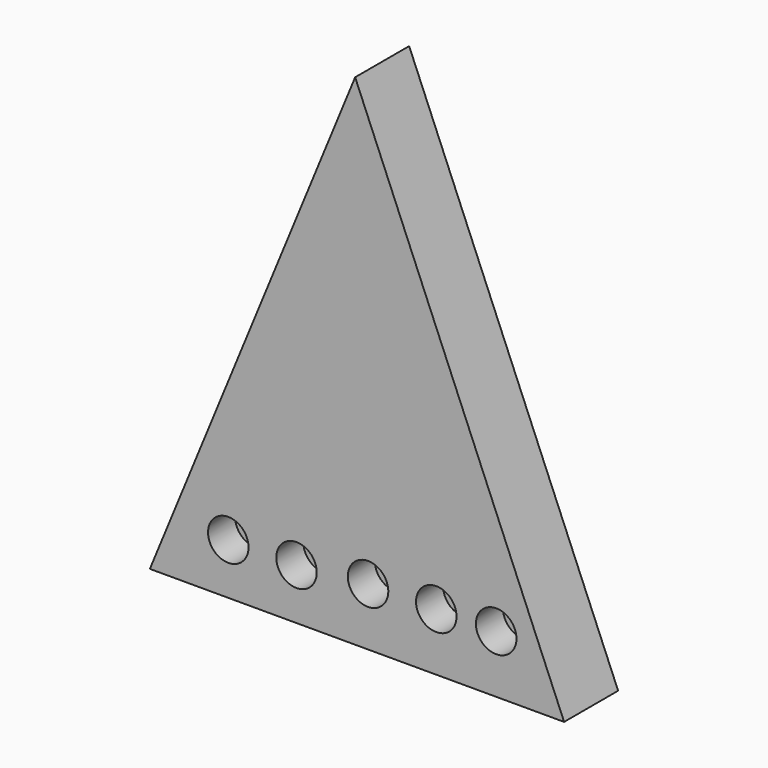
from build123d import *

# Parameters (mm, degrees)
F2_DEPTH = 12.7
F3_R     = 3.81
F4_DEPTH = 6.35


with BuildPart() as f2:
    # F1 (on face) → F2 (new body)
    with BuildSketch(Plane.XZ):
        Polygon((-24.305364, 75.707138), (-62.914841, -18.258097), (15.001874, -18.258097), align=None)
    extrude(amount=F2_DEPTH)

    # F3 (on face) → F4 (cut)
    with BuildSketch(Plane.XZ.offset(12.7)):
        with Locations((-48.166987, -8.650606)):
            Circle(F3_R)
        with Locations((-35.33379, -8.650606)):
            Circle(F3_R)
        with Locations((-21.874588, -7.398587)):
            Circle(F3_R)
        with Locations((-9.041392, -7.398587)):
            Circle(F3_R)
        with Locations((2.226783, -7.398587)):
            Circle(F3_R)
    extrude(amount=-F4_DEPTH, mode=Mode.SUBTRACT)


solid = f2.part
